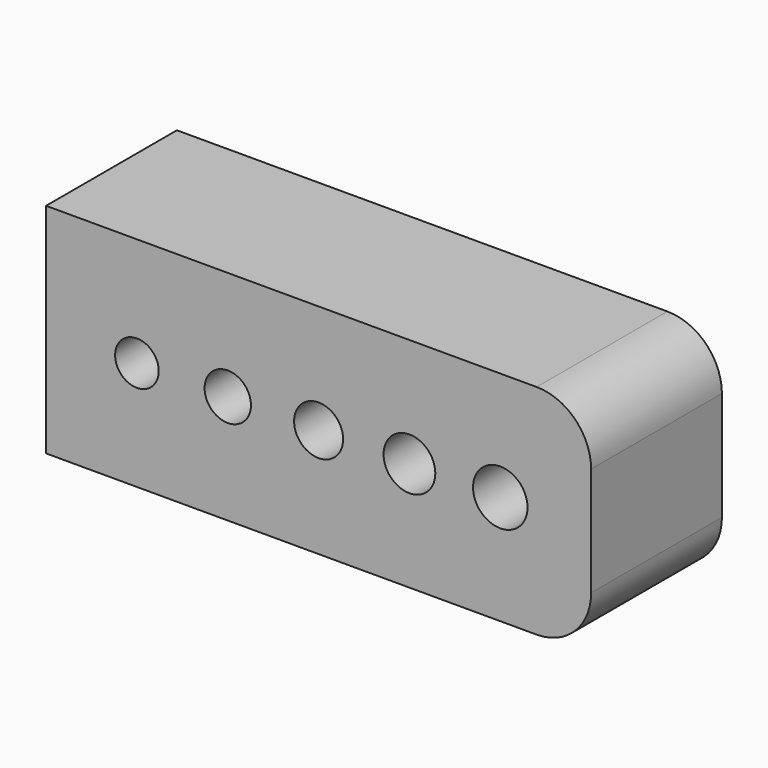
from build123d import *

# Parameters (mm, degrees)
F0_W     = 10
F0_H     = 4
F0_R     = 0.4
F0_R_2   = 0.425
F0_R_3   = 0.45
F0_R_4   = 0.475
F0_R_5   = 0.5
F1_DEPTH = 3
F2_R     = 1


with BuildPart() as f1:
    # F0 (on Front) → F1 (new body)
    with BuildSketch(Plane.XZ):
        Rectangle(F0_W, F0_H)
        with Locations((-3.333333, 0)):
            Circle(F0_R, mode=Mode.SUBTRACT)
        with Locations((-1.666667, 0)):
            Circle(F0_R_2, mode=Mode.SUBTRACT)
        Circle(F0_R_3, mode=Mode.SUBTRACT)
        with Locations((1.666667, 0)):
            Circle(F0_R_4, mode=Mode.SUBTRACT)
        with Locations((3.333333, 0)):
            Circle(F0_R_5, mode=Mode.SUBTRACT)
    extrude(amount=F1_DEPTH)

    # F2
    f2_edges = [f1.edges().sort_by_distance(p)[0] for p in [
        (5, -1.5, 2),
        (5, -1.5, -2),
    ]]
    fillet(f2_edges, radius=F2_R)


solid = f1.part
